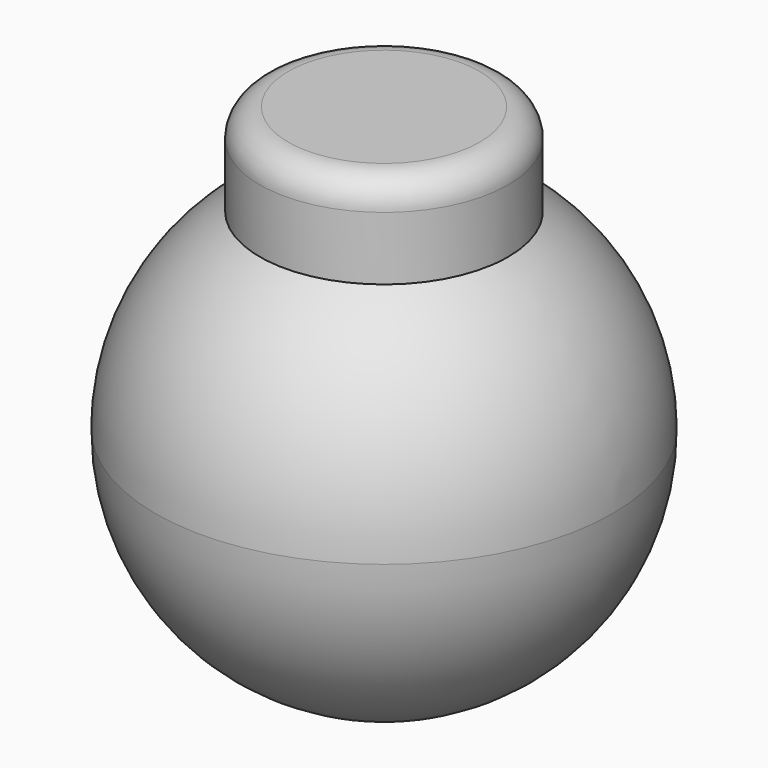
from build123d import *

# Parameters (mm, degrees)
F2_R     = 22.225
F3_DEPTH = 50.8
F4_R     = 5.08


with BuildPart() as f1:
    # F0 (on Front) → F1 (revolve)
    with BuildSketch(Plane.XZ):
        with BuildLine():
            Line((0, -31.9333635271), (0, -40.9301067458))
            ThreePointArc((0, -40.9301067458), (28.9419560347, -28.9419560347), (40.9301067458, 0))
            Line((40.9301067458, 0), (31.9333635271, 0))
            ThreePointArc((31.9333635271, 0), (22.5802978961, -22.5802978961), (0, -31.9333635271))
        make_face()
        with BuildLine():
            Line((31.9333635271, 0), (40.9301067458, 0))
            ThreePointArc((40.9301067458, 0), (28.9419560347, 28.9419560347), (0, 40.9301067458))
            Line((0, 40.9301067458), (0, 31.9333635271))
            ThreePointArc((0, 31.9333635271), (22.5802978961, 22.5802978961), (31.9333635271, 0))
        make_face()
    revolve(axis=Axis((0, 0, 0), (0, 0, -1)))

    # F2 (on Top) → F3 (join)
    with BuildSketch(Plane.XY):
        Circle(F2_R)
    extrude(amount=F3_DEPTH)

    # F4
    f4_edges = [f1.edges().sort_by_distance(p)[0] for p in [
        (-22.225, 0, 50.8),
    ]]
    fillet(f4_edges, radius=F4_R)


solid = f1.part
